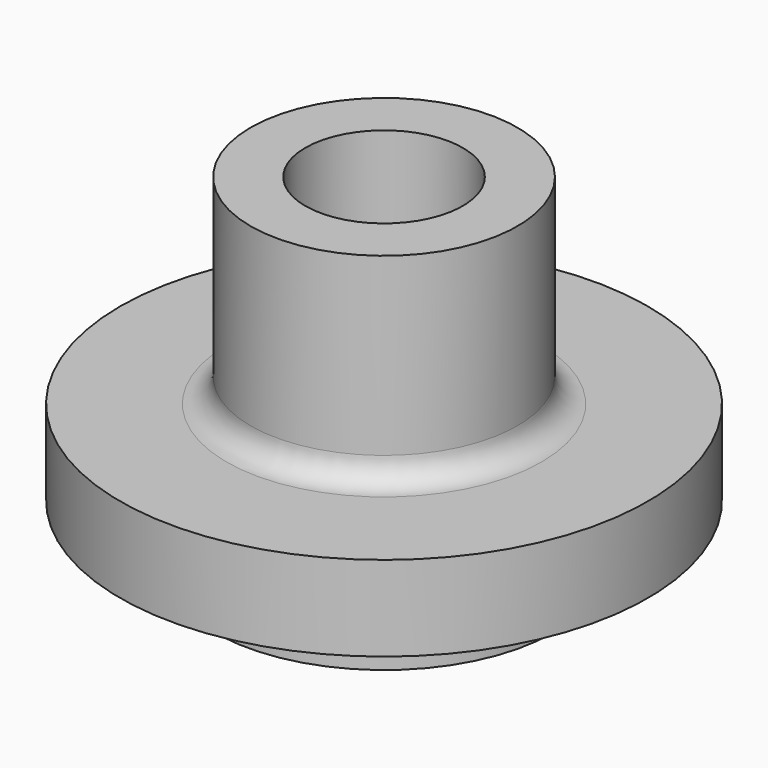
from build123d import *

# Parameters (mm, degrees)
F3_R = 5.08


with BuildPart() as f2:
    # F1 (on Front) → F2 (revolve)
    with BuildSketch(Plane.XZ):
        with BuildLine():
            Line((-16.642537, 50.732616), (-28.212247, 50.732616))
            Line((-28.212247, 50.732616), (-28.212247, 8.507284))
            Line((-28.212247, 8.507284), (-55.781666, 8.507284))
            Line((-55.781666, 8.507284), (-55.781666, -9.487526))
            Line((-55.781666, -9.487526), (-35.900883, -9.487526))
            Line((-35.900883, -9.487526), (-35.900883, -22.338578))
            Line((-35.900883, -22.338578), (-25.249703, -26.389176))
            ThreePointArc((-25.249703, -26.389176), (-19.387714, -25.681478), (-16.642537, -20.453883))
            Line((-16.642537, -20.453883), (-16.642537, 50.732616))
        make_face()
    revolve(axis=Axis((0, 0, -25.752651), (0, 0, -1)))

    # F3
    f3_edges = [f2.edges().sort_by_distance(p)[0] for p in [
        (28.212247, 0, 8.507284),
    ]]
    fillet(f3_edges, radius=F3_R)


solid = f2.part
